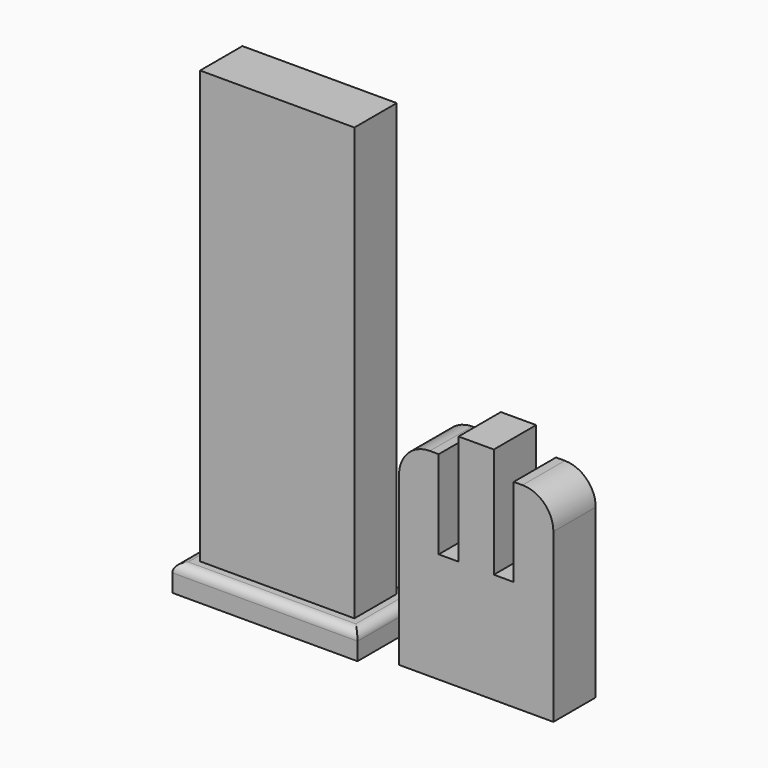
from build123d import *

# Parameters (mm, degrees)
F0_W     = 9
F0_H     = 12
F0_W_2   = 4.5
F0_W_3   = 8
F1_DEPTH = 104
F2_DEPTH = 6
F3_R     = 2
F4_DEPTH = 50
F0_W_4   = 4.502212
F5_DEPTH = 25
F0_W_5   = 8.997788
F6_DEPTH = 45
F7_R     = 7


with BuildPart() as f1:
    # F0 (on Top) → F1 (new body)
    with BuildSketch(Plane.XY):
        with Locations((-13, 0)):
            Rectangle(F0_W, F0_H)
        with Locations((13, 0)):
            Rectangle(F0_W, F0_H)
        with Locations((-6.25, 0)):
            Rectangle(F0_W_2, F0_H)
        Rectangle(F0_W_3, F0_H)
        with Locations((6.25, 0)):
            Rectangle(F0_W_2, F0_H)
    extrude(amount=F1_DEPTH)

    # F0 (on Top) → F2 (join)
    with BuildSketch(Plane.XY):
        Polygon((-17.5, -6), (-17.5, 6), (-21, 9.5), (-21, -9.5), align=None)
        Polygon((-8.5, -6), (-17.5, -6), (-21, -9.5), (21, -9.5), (17.5, -6), (8.5, -6), (4, -6), (-4, -6), align=None)
        Polygon((-21, 9.5), (-17.5, 6), (-8.5, 6), (-4, 6), (4, 6), (8.5, 6), (17.5, 6), (21, 9.5), align=None)
        Polygon((21, -9.5), (21, 9.5), (17.5, 6), (17.5, -6), align=None)
    extrude(amount=F2_DEPTH)

    # F3
    f3_edges = [f1.edges().sort_by_distance(p)[0] for p in [
        (0, -9.5, 6),
        (21, 0, 6),
        (0, 9.5, 6),
        (-21, 0, 6),
    ]]
    fillet(f3_edges, radius=F3_R)


with BuildPart() as f4:
    # F0 (on Top) → F4 (new body)
    with BuildSketch(Plane.XY):
        with Locations((45.120575, 0)):
            Rectangle(F0_W_3, F0_H)
    extrude(amount=F4_DEPTH)

    # F0 (on Top) → F5 (join)
    with BuildSketch(Plane.XY):
        with Locations((38.870575, 0)):
            Rectangle(F0_W_2, F0_H)
        with Locations((51.371681, 0)):
            Rectangle(F0_W_4, F0_H)
    extrude(amount=F5_DEPTH)

    # F0 (on Top) → F6 (join)
    with BuildSketch(Plane.XY):
        with Locations((32.121681, 0)):
            Rectangle(F0_W_5, F0_H)
        with Locations((58.122787, 0)):
            Rectangle(F0_W, F0_H)
    extrude(amount=F6_DEPTH)

    # F7
    f7_edges = [f4.edges().sort_by_distance(p)[0] for p in [
        (27.622787, 0, 45),
        (62.622787, 0, 45),
    ]]
    fillet(f7_edges, radius=F7_R)


solid = Compound([f1.part, f4.part])
